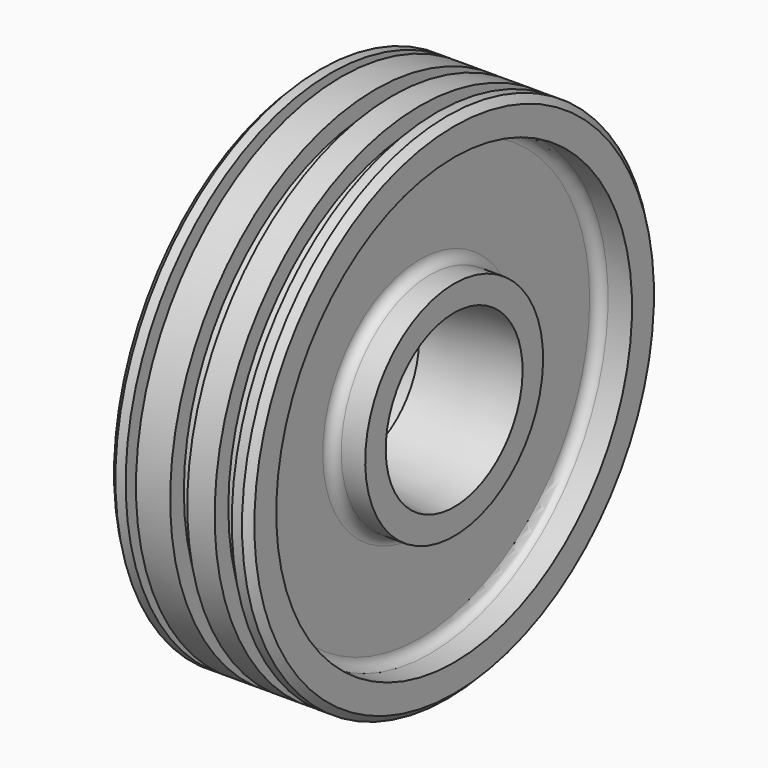
from build123d import *

# Parameters (mm, degrees)
F2_SIZE = 2


with BuildPart() as f1:
    # F0 (on Front) → F1 (revolve)
    with BuildSketch(Plane.XZ):
        with BuildLine():
            Line((0, 32.5), (0, 27.5))
            Line((0, 27.5), (13, 27.5))
            Line((13, 27.5), (13, 22.205228))
            Line((13, 22.205228), (41, 25))
            Line((41, 25), (41, 32.5))
            Line((41, 32.5), (34, 32.5))
            ThreePointArc((34, 32.5), (31.87868, 33.37868), (31, 35.5))
            Line((31, 35.5), (31, 62))
            ThreePointArc((31, 62), (31.87868, 64.12132), (34, 65))
            Line((34, 65), (41, 65))
            Line((41, 65), (41, 75))
            Line((41, 75), (36, 75))
            Line((36, 75), (36, 70))
            Line((36, 70), (31, 70))
            Line((31, 70), (31, 75))
            Line((31, 75), (23, 75))
            Line((23, 75), (23, 70))
            Line((23, 70), (18, 70))
            Line((18, 70), (18, 75))
            Line((18, 75), (8, 75))
            Line((8, 75), (8, 70))
            Line((8, 70), (5, 70))
            Line((5, 70), (5, 75))
            Line((5, 75), (0, 75))
            Line((0, 75), (0, 65))
            Line((0, 65), (7, 65))
            ThreePointArc((7, 65), (9.12132, 64.12132), (10, 62))
            Line((10, 62), (10, 35.5))
            ThreePointArc((10, 35.5), (9.12132, 33.37868), (7, 32.5))
            Line((7, 32.5), (0, 32.5))
        make_face()
    revolve(axis=Axis((20.5, 0, 0), (1, 0, 0)))

    # F2
    f2_edges = [f1.edges().sort_by_distance(p)[0] for p in [
        (41, 0, -75),
        (0, 0, -75),
    ]]
    chamfer(f2_edges, length=F2_SIZE)


solid = f1.part
